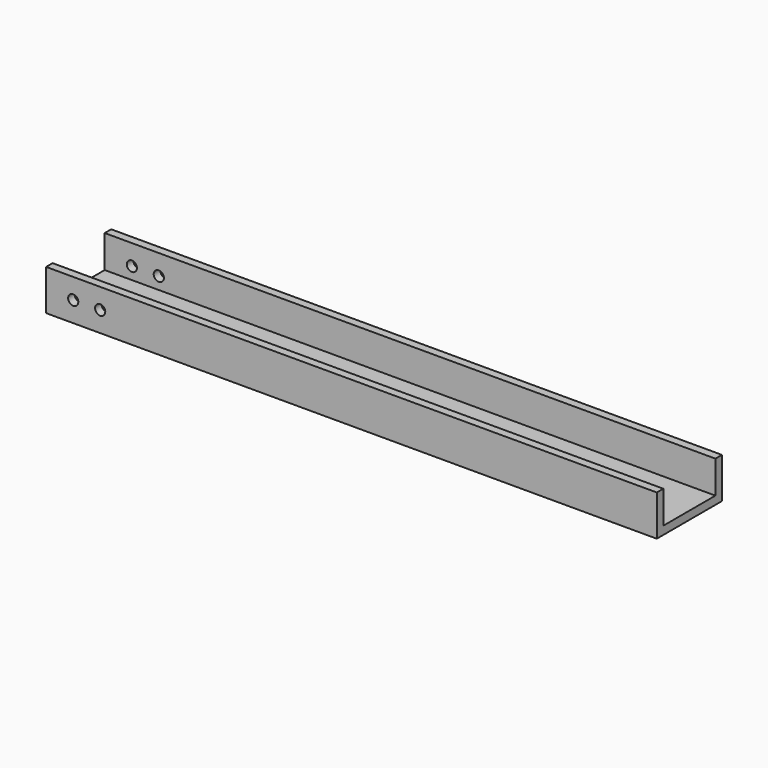
from build123d import *

# Parameters (mm, degrees)
F0_W     = 190.5
F0_H     = 25.4
F1_DEPTH = 12.7
F2_T     = -2.54
F4_D     = 3.175
F6_D     = 3.175


with BuildPart() as f1:
    # F0 (on Top) → F1 (new body)
    with BuildSketch(Plane.XY):
        with Locations((4.067147, 12.7)):
            Rectangle(F0_W, F0_H)
    extrude(amount=F1_DEPTH)

    # F2
    f2_openings = [f1.faces().sort_by_distance(p)[0] for p in [
        (4.067147, 12.7, 12.7),
        (99.317147, 12.7, 6.35),
        (-91.182853, 12.7, 6.35),
    ]]
    offset(amount=F2_T, openings=f2_openings)

    # F4 (through all)
    with Locations(Plane.XY.offset(2.54)):
        with Locations((10.417147, 12.7), (23.117147, 12.7), (35.817147, 12.7), (86.617147, 12.7)):
            Hole(F4_D / 2)

    # F6 (through all)
    with Locations(Plane(origin=(0, 25.4, 0), x_dir=(-1, 0, 0), z_dir=(0, 1, 0))):
        with Locations((74.310439, 6.35), (82.716187, 6.35)):
            Hole(F6_D / 2)


solid = f1.part
